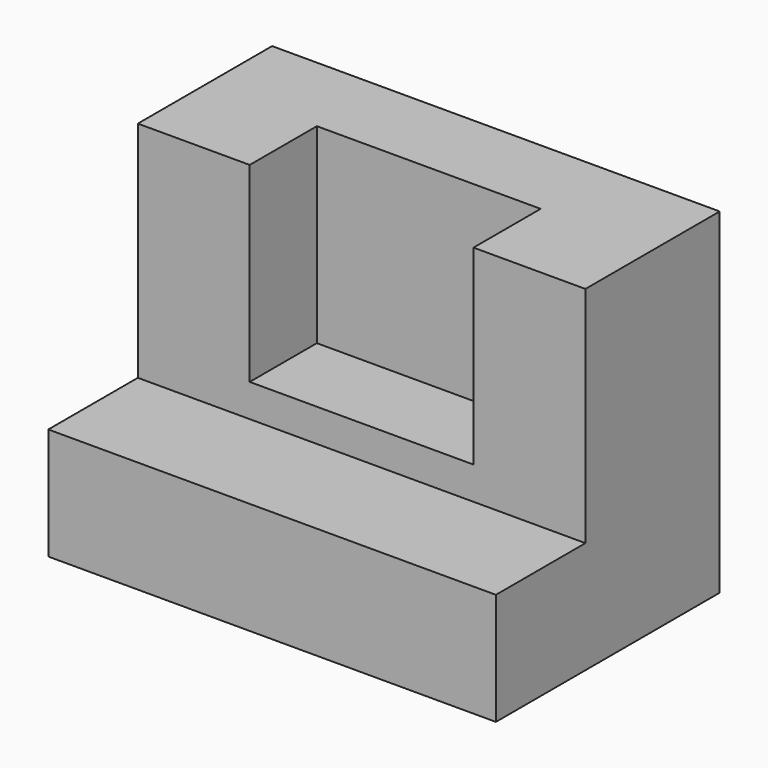
from build123d import *

# Parameters (mm, degrees)
F1_DEPTH = 101.6
F2_W     = 50.8
F2_H     = 43.3606645299
F3_DEPTH = 19.05


with BuildPart() as f1:
    # F0 (on Right) → F1 (new body)
    with BuildSketch(Plane.YZ):
        Polygon((-31.7500018626, 3.1568758694), (-31.7500018626, -22.2431241306), (31.7499981374, -22.2431241306), (31.7499981374, 53.9568758694), (-6.3500018626, 53.9568758694), (-6.3500018626, 3.1568758694), align=None)
    extrude(amount=-F1_DEPTH)

    # F2 (on face) → F3 (cut)
    with BuildSketch(Plane.XZ.offset(6.3500018626)):
        with Locations((-50.8, 32.2765436045)):
            Rectangle(F2_W, F2_H)
    extrude(amount=-F3_DEPTH, mode=Mode.SUBTRACT)


solid = f1.part
